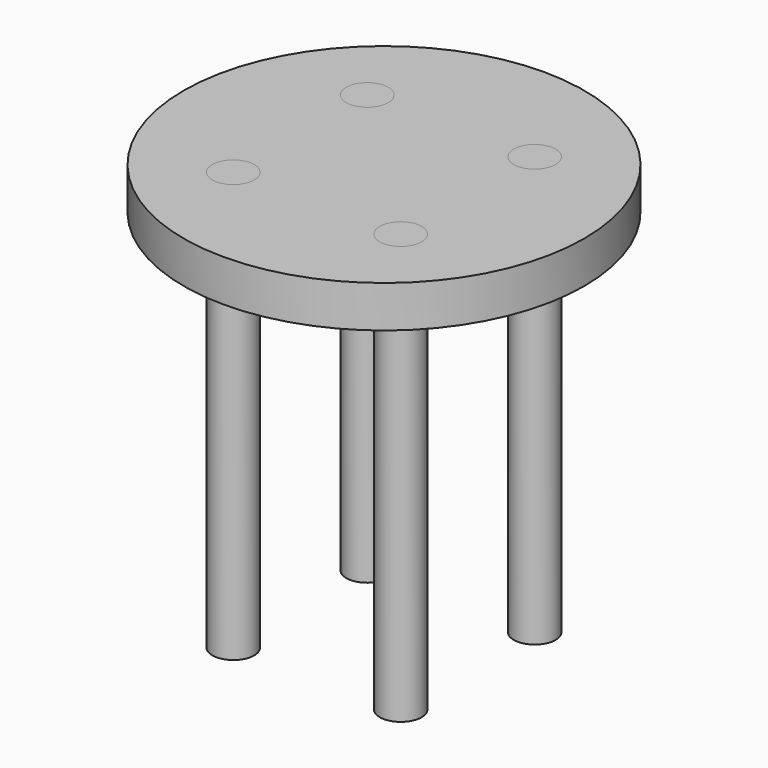
from build123d import *

# Parameters (mm, degrees)
SKETCH_R          = 47.861734
SKETCH_R_2        = 5
PAD_DEPTH         = 10
CYLINDER_R        = 5
CYLINDER_DEPTH    = 100
CYLINDER001_R     = 5
CYLINDER001_DEPTH = 100
CYLINDER002_R     = 5
CYLINDER002_DEPTH = 100
CYLINDER003_R     = 5
CYLINDER003_DEPTH = 100


with BuildPart() as body:
    # Sketch → Pad (new body)
    with BuildSketch(Plane.XY):
        Circle(SKETCH_R)
        with Locations((-20, 20)):
            Circle(SKETCH_R_2, mode=Mode.SUBTRACT)
        with Locations((-20, -20)):
            Circle(SKETCH_R_2, mode=Mode.SUBTRACT)
        with Locations((20, 20)):
            Circle(SKETCH_R_2, mode=Mode.SUBTRACT)
        with Locations((20, -20)):
            Circle(SKETCH_R_2, mode=Mode.SUBTRACT)
    extrude(amount=PAD_DEPTH)


with BuildPart() as cylinder:
    # Cylinder → Cylinder (new body)
    with BuildSketch(Plane(origin=(20, -20, -90), x_dir=(1, 0, 0), z_dir=(0, 0, 1))):
        Circle(CYLINDER_R)
    extrude(amount=CYLINDER_DEPTH)


with BuildPart() as cylinder001:
    # Cylinder001 → Cylinder001 (new body)
    with BuildSketch(Plane(origin=(20, 20, -90), x_dir=(1, 0, 0), z_dir=(0, 0, 1))):
        Circle(CYLINDER001_R)
    extrude(amount=CYLINDER001_DEPTH)


with BuildPart() as cylinder002:
    # Cylinder002 → Cylinder002 (new body)
    with BuildSketch(Plane(origin=(-20, 20, -90), x_dir=(1, 0, 0), z_dir=(0, 0, 1))):
        Circle(CYLINDER002_R)
    extrude(amount=CYLINDER002_DEPTH)


with BuildPart() as cylinder003:
    # Cylinder003 → Cylinder003 (new body)
    with BuildSketch(Plane(origin=(-20, -20, -90), x_dir=(1, 0, 0), z_dir=(0, 0, 1))):
        Circle(CYLINDER003_R)
    extrude(amount=CYLINDER003_DEPTH)


solid = Compound([body.part, cylinder.part, cylinder001.part, cylinder002.part, cylinder003.part])
